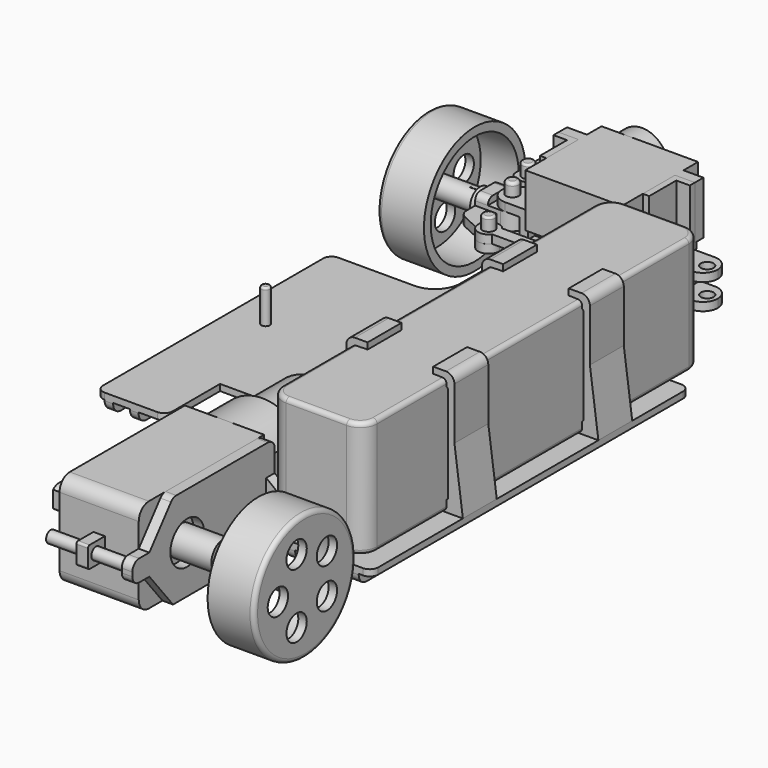
from build123d import *

# Parameters (mm, degrees)
SKETCH_R                = 2.5
PAD_DEPTH               = 1.7
SKETCH001_R             = 1
POCKET_DEPTH            = 1.701
SKETCH002_R             = 3.05
PAD001_DEPTH            = 0.6
SKETCH003_R             = 1
POCKET001_DEPTH         = 2.301
BODY_PLACEMENT_ANGLE    = 90
SKETCH004_R             = 15
PAD002_DEPTH            = 11
THICKNESS_T             = -2
FILLET_R                = 1
SKETCH005_R             = 2.45
PAD003_DEPTH            = 12.3
SKETCH006_R             = 1
POCKET002_DEPTH         = 7.3
SKETCH007_R             = 3
POCKET003_DEPTH         = 5
BODY001_PLACEMENT_ANGLE = 90
SKETCH008_R             = 1.5
PAD004_DEPTH            = 2
PAD005_DEPTH            = 3
SKETCH010_R             = 2.6
POCKET004_DEPTH         = 1.8
SKETCH011_R             = 1.3
POCKET005_DEPTH         = 2
PAD006_DEPTH            = 1
SKETCH026_W             = 5
SKETCH026_H             = 7
PAD015_DEPTH            = 1
SKETCH098_R             = 1.4
PAD068_DEPTH            = 5
FILLET037_R             = 0.5
SKETCH099_R             = 1.4
PAD069_DEPTH            = 5
FILLET038_R             = 0.5
FILLET039_R             = 1
PAD007_DEPTH            = 3.5
FILLET001_R             = 0.5
FILLET002_R             = 0.5
FILLET003_R             = 0.5
FILLET004_R             = 0.5
FILLET005_R             = 3.5
FILLET006_R             = 3.49
FILLET007_R             = 3.5
FILLET008_R             = 3.49
FILLET009_R             = 3.5
FILLET010_R             = 3.5
FILLET011_R             = 3.49
FILLET012_R             = 3.49
SKETCH014_R             = 1.5
POCKET006_DEPTH         = 8.001
SKETCH022_W             = 9
SKETCH022_H             = 4
POCKET008_DEPTH         = 2
SKETCH023_W             = 9
SKETCH023_H             = 4
POCKET009_DEPTH         = 2
SKETCH025_R             = 1
POCKET010_DEPTH         = 7.001
PAD073_DEPTH            = 1.5
PAD074_DEPTH            = 12.5
SKETCH106_R             = 1
PAD075_DEPTH            = 3
FILLET045_R             = 0.5
SKETCH015_W             = 22.8
SKETCH015_H             = 15.7
PAD008_DEPTH            = 6.25
SKETCH016_W             = 32.2
SKETCH016_H             = 2.5
PAD009_DEPTH            = 6.25
SKETCH017_W             = 22.8
SKETCH017_H             = 4.3
PAD010_DEPTH            = 12.5
SKETCH018_R             = 1
POCKET007_DEPTH         = 18.201
SKETCH019_R             = 6.15
PAD011_DEPTH            = 4.3
SKETCH020_R             = 2.45
PAD012_DEPTH            = 3.2
SKETCH021_R             = 2.75
PAD013_DEPTH            = 4.3
BODY004_PLACEMENT_ANGLE = 89.997998
SKETCH024_R             = 1.45
PAD014_DEPTH            = 2
SKETCH049_R             = 2.5
PAD028_DEPTH            = 0.6
SKETCH050_R             = 1.47
PAD029_DEPTH            = 11
FILLET048_R             = 0.7
BODY009_PLACEMENT_ANGLE = 90
PAD034_DEPTH            = 9.35
SKETCH058_W             = 5
SKETCH058_H             = 5
SKETCH058_R             = 1.4
PAD035_DEPTH            = 1.35
FILLET023_R             = 0.5
FILLET024_R             = 0.5
SKETCH059_R             = 2.7
PAD036_DEPTH            = 1
SKETCH060_R             = 0.95
PAD037_DEPTH            = 8
SKETCH061_R             = 2.7
PAD038_DEPTH            = 1
PAD039_DEPTH            = 8
SKETCH063_R             = 1.5
POCKET023_DEPTH         = 27.701
PAD040_DEPTH            = 11.2
PAD041_DEPTH            = 16.3
FILLET025_R             = 3
FILLET026_R             = 3
FILLET027_R             = 2
FILLET028_R             = 2
BODY013_PLACEMENT_ANGLE = 180
SKETCH066_R             = 3
PAD042_DEPTH            = 1
SKETCH067_R             = 1
PAD043_DEPTH            = 2.5
FILLET046_R             = 0.5
PAD076_DEPTH            = 2
BODY014_PLACEMENT_ANGLE = 90
SKETCH069_R             = 3
PAD044_DEPTH            = 1
SKETCH071_R             = 2
PAD045_DEPTH            = 6
SKETCH072_R             = 3.5
PAD046_DEPTH            = 10
POCKET024_DEPTH         = 8
PAD077_DEPTH            = 2
FILLET047_R             = 0.5
BODY015_PLACEMENT_ANGLE = 90
SKETCH074_W             = 100
SKETCH074_H             = 27.5
PAD047_DEPTH            = 11.15
FILLET029_R             = 4
FILLET030_R             = 1
PAD048_DEPTH            = 1.5
SKETCH076_R             = 1
PAD049_DEPTH            = 6
SKETCH077_R             = 5
PAD050_DEPTH            = 2.5
SKETCH078_R             = 1.48
SKETCH078_R_2           = 1.38
PAD051_DEPTH            = 18.7
PAD052_DEPTH            = 2.5
PAD055_DEPTH            = 10
PAD056_DEPTH            = 10
SKETCH086_R             = 1
PAD057_DEPTH            = 8
SKETCH090_W             = 94
SKETCH090_H             = 2.5
PAD061_DEPTH            = 1
SKETCH091_W             = 94
SKETCH091_H             = 2.5
PAD062_DEPTH            = 1
SKETCH092_W             = 94
SKETCH092_H             = 2.5
PAD063_DEPTH            = 1
SKETCH093_W             = 69
SKETCH093_H             = 2.5
PAD064_DEPTH            = 14
SKETCH094_W             = 2
SKETCH094_H             = 2.5
SKETCH094_W_2           = 4
POCKET027_DEPTH         = 102.001
SKETCH095_W             = 2
SKETCH095_H             = 2.5
PAD065_DEPTH            = 86
PAD066_DEPTH            = 10
PAD067_DEPTH            = 10
CHAMFER002_SIZE         = 3
CHAMFER003_SIZE         = 2
FILLET032_R             = 2
FILLET033_R             = 0.5
FILLET034_R             = 2
FILLET035_R             = 6
FILLET036_R             = 2
FILLET040_R             = 2.3
BODY017_PLACEMENT_ANGLE = 90
SKETCH080_R             = 15
PAD053_DEPTH            = 11
THICKNESS001_T          = -2
FILLET031_R             = 1
SKETCH081_R             = 2.45
PAD054_DEPTH            = 12.3
SKETCH082_R             = 1
POCKET025_DEPTH         = 7.3
SKETCH083_R             = 3
POCKET026_DEPTH         = 5
BODY018_PLACEMENT_ANGLE = 90
SKETCH100_R             = 1.45
PAD070_DEPTH            = 2
FILLET041_R             = 2
FILLET042_R             = 5
FILLET043_R             = 5
SKETCH101_W             = 4
SKETCH101_H             = 10
PAD071_DEPTH            = 2.5
POCKET028_DEPTH         = 5
FILLET044_R             = 1
PAD072_DEPTH            = 2.5


with BuildPart() as bearing_ref:
    # Sketch → Pad (new body)
    with BuildSketch(Plane.XY):
        Circle(SKETCH_R)
    extrude(amount=PAD_DEPTH)

    # Sketch001 (on Face3 of Pad) → Pocket (cut, through all)
    with BuildSketch(Plane.XY.offset(1.7)):
        Circle(SKETCH001_R)
    extrude(amount=-POCKET_DEPTH, mode=Mode.SUBTRACT)

    # Sketch002 (on Face3 of Pocket) → Pad001 (join)
    with BuildSketch(Plane.XY.offset(1.7)):
        Circle(SKETCH002_R)
    extrude(amount=PAD001_DEPTH)

    # Sketch003 (on Face3 of Pad001) → Pocket001 (cut, through all)
    with BuildSketch(Plane.XY.offset(2.3)):
        Circle(SKETCH003_R)
    extrude(amount=-POCKET001_DEPTH, mode=Mode.SUBTRACT)


with BuildPart() as bearing_ref_1:
    # Body placement: moved
    add(bearing_ref.part.moved(Location((1.7, 0, 0))).rotate(Axis((1.7, 0, 0), (0, -1, 0)), BODY_PLACEMENT_ANGLE))


with BuildPart() as wheel_ref0:
    # Sketch004 → Pad002 (new body)
    with BuildSketch(Plane.XZ):
        Circle(SKETCH004_R)
    extrude(amount=PAD002_DEPTH)

    # Thickness
    thickness_openings = [wheel_ref0.faces().sort_by_distance(p)[0] for p in [
        (0, -11, 0),
    ]]
    offset(amount=THICKNESS_T, openings=thickness_openings)

    # Fillet
    fillet_edges = [wheel_ref0.edges().sort_by_distance(p)[0] for p in [
        (-15, 0, 0),
    ]]
    fillet(fillet_edges, radius=FILLET_R)

    # Sketch005 (on Face4 of Fillet) → Pad003 (join)
    with BuildSketch(Plane(origin=(0, 0, 0), x_dir=(-1, 0, 0), z_dir=(0, 1, 0))):
        Circle(SKETCH005_R)
    extrude(amount=-PAD003_DEPTH)

    # Sketch006 (on Face9 of Pad003) → Pocket002 (cut)
    with BuildSketch(Plane.XZ.offset(12.3)):
        Circle(SKETCH006_R)
    extrude(amount=-POCKET002_DEPTH, mode=Mode.SUBTRACT)

    # Sketch007 (on Face4 of Pocket002) → Pocket003 (cut)
    with BuildSketch(Plane(origin=(0, 0, 0), x_dir=(-1, 0, 0), z_dir=(0, 1, 0))):
        with Locations((-2.472136, 7.608452)):
            Circle(SKETCH007_R)
        with Locations((6.472136, 4.702282)):
            Circle(SKETCH007_R)
        with Locations((6.472136, -4.702282)):
            Circle(SKETCH007_R)
        with Locations((-2.472136, -7.608452)):
            Circle(SKETCH007_R)
        with Locations((-8, 0)):
            Circle(SKETCH007_R)
    extrude(amount=-POCKET003_DEPTH, mode=Mode.SUBTRACT)


with BuildPart() as wheel_ref0_1:
    # Body001 placement: moved
    add(wheel_ref0.part.moved(Location((-13.9, 0, 0))).rotate(Axis((-13.9, 0, 0), (0, 0, 1)), BODY001_PLACEMENT_ANGLE))


with BuildPart() as steering_knuckle:
    # Sketch008 → Pad004 (new body, symmetric)
    with BuildSketch(Plane.XY):
        with BuildLine():
            ThreePointArc((5.999997, -3.5), (9.5, 0), (5.999997, 3.5))
            Line((5.999997, 3.5), (3, 3.499997))
            Line((3, 3.499997), (3, -3.5))
            Line((3, -3.5), (5.999997, -3.5))
        make_face()
        with Locations((6, 0)):
            Circle(SKETCH008_R, mode=Mode.SUBTRACT)
    extrude(amount=PAD004_DEPTH, both=True)

    # Sketch009 (on Face3 of Pad004) → Pad005 (join)
    with BuildSketch(Plane(origin=(3, 0, 0), x_dir=(0, -1, 0), z_dir=(-1, 0, 0))):
        with BuildLine():
            Line((-2, 3.5), (2, 3.5))
            ThreePointArc((3.5, 2), (3.06066, 3.06066), (2, 3.5))
            Line((3.5, 2), (3.5, -2))
            ThreePointArc((2, -3.5), (3.06066, -3.06066), (3.5, -2))
            Line((2, -3.5), (-2, -3.5))
            ThreePointArc((-3.5, -2), (-3.06066, -3.06066), (-2, -3.5))
            Line((-3.5, -2), (-3.5, 2))
            ThreePointArc((-2, 3.5), (-3.06066, 3.06066), (-3.5, 2))
        make_face()
    extrude(amount=PAD005_DEPTH)

    # Sketch010 (on Face11 of Pad005) → Pocket004 (cut)
    with BuildSketch(Plane(origin=(0, 0, 0), x_dir=(0, -1, 0), z_dir=(-1, 0, 0))):
        Circle(SKETCH010_R)
    extrude(amount=-POCKET004_DEPTH, mode=Mode.SUBTRACT)

    # Sketch011 (on Face18 of Pocket004) → Pocket005 (cut)
    with BuildSketch(Plane(origin=(1.8, 0, 0), x_dir=(0, -1, 0), z_dir=(-1, 0, 0))):
        Circle(SKETCH011_R)
    extrude(amount=-POCKET005_DEPTH, mode=Mode.SUBTRACT)

    # Sketch012 → Pad006 (join, symmetric)
    with BuildSketch(Plane.XY):
        with BuildLine():
            ThreePointArc((7.5, -12.00002), (10.00001, -14.5), (12.5, -12))
            Line((12.5, -12), (12.5, -10.5))
            ThreePointArc((12.5, -10.5), (12.103591, -9.149109), (11.040075, -8.226623))
            Line((11.040075, -8.226623), (5.875955, -5.864026))
            ThreePointArc((5, -4.5), (5.237846, -5.310535), (5.875955, -5.864026))
            Line((5, -4.5), (5, -3.5))
            Line((5, -3.5), (0, -3.5))
            Line((0, -3.5), (0, -6))
            ThreePointArc((0, -6), (0.396409, -7.350891), (1.459925, -8.273377))
            Line((1.459925, -8.273377), (6.624045, -10.635974))
            ThreePointArc((7.5, -12), (7.262154, -11.189465), (6.624045, -10.635974))
            Line((7.5, -12), (7.5, -12.00002))
        make_face()
    extrude(amount=PAD006_DEPTH, both=True)

    # Sketch026 → Pad015 (join, symmetric)
    with BuildSketch(Plane.XY):
        with Locations((2.5, 7)):
            Rectangle(SKETCH026_W, SKETCH026_H)
    extrude(amount=PAD015_DEPTH, both=True)

    # Sketch098 (on Face7 of Pad015) → Pad068 (join)
    with BuildSketch(Plane.XY.offset(1)):
        with Locations((10, -12)):
            Circle(SKETCH098_R)
    extrude(amount=PAD068_DEPTH)

    # Fillet037
    fillet037_edges = [steering_knuckle.edges().sort_by_distance(p)[0] for p in [
        (8.6, -12, 6),
    ]]
    fillet(fillet037_edges, radius=FILLET037_R)

    # Sketch099 (on Face39 of Fillet037) → Pad069 (join)
    with BuildSketch(Plane.XY.offset(1)):
        with Locations((2.5, 9)):
            Circle(SKETCH099_R)
    extrude(amount=PAD069_DEPTH)

    # Fillet038
    fillet038_edges = [steering_knuckle.edges().sort_by_distance(p)[0] for p in [
        (1.1, 9, 6),
    ]]
    fillet(fillet038_edges, radius=FILLET038_R)

    # Fillet039
    fillet039_edges = [steering_knuckle.edges().sort_by_distance(p)[0] for p in [
        (0, 10.5, 0),
        (5, 10.5, 0),
    ]]
    fillet(fillet039_edges, radius=FILLET039_R)


with BuildPart() as axle_servo_motor_holder:
    # Sketch013 → Pad007 (new body, symmetric)
    with BuildSketch(Plane.XZ):
        Polygon((3.5, 4), (3.5, 2.05), (10.5, 2.05), (10.5, -2.05), (3.5, -2.05), (3.5, -4), (12.5, -4), (12.5, -3), (45.5, -3), (45.5, -4), (54.5, -4), (54.5, -2.05), (47.5, -2.05), (47.5, 2.05), (54.5, 2.05), (54.5, 4), (45.5, 4), (45.5, 3), (12.5, 3), (12.5, 4), align=None)
    extrude(amount=PAD007_DEPTH, both=True)

    # Fillet001
    fillet001_edges = [axle_servo_motor_holder.edges().sort_by_distance(p)[0] for p in [
        (45.5, 0, 4),
    ]]
    fillet(fillet001_edges, radius=FILLET001_R)

    # Fillet002
    fillet002_edges = [axle_servo_motor_holder.edges().sort_by_distance(p)[0] for p in [
        (45.5, 0, -4),
    ]]
    fillet(fillet002_edges, radius=FILLET002_R)

    # Fillet003
    fillet003_edges = [axle_servo_motor_holder.edges().sort_by_distance(p)[0] for p in [
        (12.5, 0, 4),
    ]]
    fillet(fillet003_edges, radius=FILLET003_R)

    # Fillet004
    fillet004_edges = [axle_servo_motor_holder.edges().sort_by_distance(p)[0] for p in [
        (12.5, 0, -4),
    ]]
    fillet(fillet004_edges, radius=FILLET004_R)

    # Fillet005
    fillet005_edges = [axle_servo_motor_holder.edges().sort_by_distance(p)[0] for p in [
        (3.5, -3.5, 3.025),
    ]]
    fillet(fillet005_edges, radius=FILLET005_R)

    # Fillet006
    fillet006_edges = [axle_servo_motor_holder.edges().sort_by_distance(p)[0] for p in [
        (3.5, 3.5, 3.025),
    ]]
    fillet(fillet006_edges, radius=FILLET006_R)

    # Fillet007
    fillet007_edges = [axle_servo_motor_holder.edges().sort_by_distance(p)[0] for p in [
        (3.5, -3.5, -3.025),
    ]]
    fillet(fillet007_edges, radius=FILLET007_R)

    # Fillet008
    fillet008_edges = [axle_servo_motor_holder.edges().sort_by_distance(p)[0] for p in [
        (3.5, 3.5, -3.025),
    ]]
    fillet(fillet008_edges, radius=FILLET008_R)

    # Fillet009
    fillet009_edges = [axle_servo_motor_holder.edges().sort_by_distance(p)[0] for p in [
        (54.5, 3.5, 3.025),
    ]]
    fillet(fillet009_edges, radius=FILLET009_R)

    # Fillet010
    fillet010_edges = [axle_servo_motor_holder.edges().sort_by_distance(p)[0] for p in [
        (54.5, 3.5, -3.025),
    ]]
    fillet(fillet010_edges, radius=FILLET010_R)

    # Fillet011
    fillet011_edges = [axle_servo_motor_holder.edges().sort_by_distance(p)[0] for p in [
        (54.5, -3.5, 3.025),
    ]]
    fillet(fillet011_edges, radius=FILLET011_R)

    # Fillet012
    fillet012_edges = [axle_servo_motor_holder.edges().sort_by_distance(p)[0] for p in [
        (54.5, -3.5, -3.025),
    ]]
    fillet(fillet012_edges, radius=FILLET012_R)

    # Sketch014 (on Face22 of Fillet012) → Pocket006 (cut, through all)
    with BuildSketch(Plane(origin=(0, 0, 4), x_dir=(-1, 0, 0), z_dir=(0, 0, 1))):
        with Locations((-6, 0)):
            Circle(SKETCH014_R)
        with Locations((-52, 0)):
            Circle(SKETCH014_R)
    extrude(amount=-POCKET006_DEPTH, mode=Mode.SUBTRACT)

    # Sketch022 (on Face1 of Pocket006) → Pocket008 (cut)
    with BuildSketch(Plane.XZ.offset(3.5)):
        with Locations((17, 0)):
            Rectangle(SKETCH022_W, SKETCH022_H)
        with Locations((29, 0)):
            Rectangle(SKETCH022_W, SKETCH022_H)
        with Locations((41, 0)):
            Rectangle(SKETCH022_W, SKETCH022_H)
    extrude(amount=-POCKET008_DEPTH, mode=Mode.SUBTRACT)

    # Sketch023 (on Face40 of Pocket008) → Pocket009 (cut)
    with BuildSketch(Plane(origin=(0, 3.5, 0), x_dir=(1, 0, 0), z_dir=(0, 1, 0))):
        with Locations((17, 0)):
            Rectangle(SKETCH023_W, SKETCH023_H)
        with Locations((29, 0)):
            Rectangle(SKETCH023_W, SKETCH023_H)
        with Locations((41, 0)):
            Rectangle(SKETCH023_W, SKETCH023_H)
    extrude(amount=-POCKET009_DEPTH, mode=Mode.SUBTRACT)

    # Sketch025 (on Face16 of Pocket009) → Pocket010 (cut, through all)
    with BuildSketch(Plane(origin=(0, 0, 3), x_dir=(-1, 0, 0), z_dir=(0, 0, 1))):
        with Locations((-23, 1.75)):
            Circle(SKETCH025_R)
        with Locations((-23, -1.75)):
            Circle(SKETCH025_R)
        with Locations((-35, 1.75)):
            Circle(SKETCH025_R)
        with Locations((-35, -1.75)):
            Circle(SKETCH025_R)
    extrude(amount=-POCKET010_DEPTH, mode=Mode.SUBTRACT)

    # Sketch104 (on Face16 of Pocket010) → Pad073 (join)
    with BuildSketch(Plane(origin=(0, 0, 3), x_dir=(-1, 0, 0), z_dir=(0, 0, 1))):
        Polygon((-41.9, 4.5), (-16.1, 4.5), (-16.1, -3.5), (-12.9, -3.5), (-12.9, -5.5), (-45.1, -5.5), (-45.1, -3.5), (-41.9, -3.5), align=None)
    extrude(amount=PAD073_DEPTH)

    # Sketch105 (on Face81 of Pad073) → Pad074 (join)
    with BuildSketch(Plane(origin=(0, 0, 4.5), x_dir=(-1, 0, 0), z_dir=(0, 0, 1))):
        Polygon((-40.4, -5.5), (-45.1, -5.5), (-45.1, -3.5), (-41.9, -3.5), (-41.9, 4.5), (-40.4, 4.5), align=None)
        Polygon((-17.6, 4.5), (-16.1, 4.5), (-16.1, -3.5), (-12.9, -3.5), (-12.9, -5.5), (-17.6, -5.5), align=None)
    extrude(amount=PAD074_DEPTH)

    # Sketch106 (on Face100 of Pad074) → Pad075 (join)
    with BuildSketch(Plane(origin=(0, 5.5, 0), x_dir=(1, 0, 0), z_dir=(0, 1, 0))):
        with Locations((42.75, -10.75)):
            Circle(SKETCH106_R)
        with Locations((15.25, -10.75)):
            Circle(SKETCH106_R)
    extrude(amount=PAD075_DEPTH)

    # Fillet045
    fillet045_edges = [axle_servo_motor_holder.edges().sort_by_distance(p)[0] for p in [
        (41.75, 8.5, 10.75),
        (14.25, 8.5, 10.75),
    ]]
    fillet(fillet045_edges, radius=FILLET045_R)


with BuildPart() as servo_motor_ref:
    # Sketch015 → Pad008 (new body, symmetric)
    with BuildSketch(Plane.XZ):
        Rectangle(SKETCH015_W, SKETCH015_H)
    extrude(amount=PAD008_DEPTH, both=True)

    # Sketch016 → Pad009 (join, symmetric)
    with BuildSketch(Plane.XZ):
        with Locations((0, 9.1)):
            Rectangle(SKETCH016_W, SKETCH016_H)
    extrude(amount=PAD009_DEPTH, both=True)

    # Sketch017 (on Face9 of Pad009) → Pad010 (join)
    with BuildSketch(Plane.XZ.offset(6.25)):
        with Locations((0, 12.5)):
            Rectangle(SKETCH017_W, SKETCH017_H)
    extrude(amount=-PAD010_DEPTH)

    # Sketch018 (on Face1 of Pad010) → Pocket007 (cut, through all)
    with BuildSketch(Plane(origin=(0, 0, 10.35), x_dir=(-1, 0, 0), z_dir=(0, 0, 1))):
        with Locations((-13.75, 0)):
            Circle(SKETCH018_R)
        with Locations((13.75, 0)):
            Circle(SKETCH018_R)
    extrude(amount=-POCKET007_DEPTH, mode=Mode.SUBTRACT)

    # Sketch019 (on Face13 of Pocket007) → Pad011 (join)
    with BuildSketch(Plane(origin=(0, 0, 14.65), x_dir=(-1, 0, 0), z_dir=(0, 0, 1))):
        with Locations((5.25, 0)):
            Circle(SKETCH019_R)
    extrude(amount=PAD011_DEPTH)

    # Sketch020 (on Face22 of Pad011) → Pad012 (join)
    with BuildSketch(Plane(origin=(0, 0, 18.95), x_dir=(-1, 0, 0), z_dir=(0, 0, 1))):
        with Locations((5.25, 0)):
            Circle(SKETCH020_R)
    extrude(amount=PAD012_DEPTH)

    # Sketch021 (on Face13 of Pad012) → Pad013 (join)
    with BuildSketch(Plane(origin=(0, 0, 14.65), x_dir=(-1, 0, 0), z_dir=(0, 0, 1))):
        with Locations((-0.35, 0)):
            Circle(SKETCH021_R)
    extrude(amount=PAD013_DEPTH)


with BuildPart() as servo_motor_ref_1:
    # Body004 placement: moved
    add(servo_motor_ref.part.moved(Location((29, -2.849782, 10.749726))).rotate(Axis((29, -2.849782, 10.749726), (-1, 0, 0)), BODY004_PLACEMENT_ANGLE))


with BuildPart() as track_rod:
    # Sketch024 → Pad014 (new body)
    with BuildSketch(Plane.XY):
        with BuildLine():
            ThreePointArc((2, 1.5), (-2.5, 0), (2, -1.5))
            Line((2, -1.5), (36, -1.5))
            ThreePointArc((36, -1.5), (40.5, 0), (36, 1.5))
            Line((36, 1.5), (2, 1.5))
        make_face()
        Circle(SKETCH024_R, mode=Mode.SUBTRACT)
        with Locations((38, 0)):
            Circle(SKETCH024_R, mode=Mode.SUBTRACT)
    extrude(amount=PAD014_DEPTH)


with BuildPart() as track_rod_1:
    # Body005 placement: moved
    add(track_rod.part.moved(Location((10, -12, 1))))


with BuildPart() as pin1:
    # Sketch049 → Pad028 (new body)
    with BuildSketch(Plane.XZ):
        Circle(SKETCH049_R)
    extrude(amount=PAD028_DEPTH)

    # Sketch050 (on Face3 of Pad028) → Pad029 (join)
    with BuildSketch(Plane.XZ.offset(0.6)):
        Circle(SKETCH050_R)
    extrude(amount=PAD029_DEPTH)

    # Fillet048
    fillet048_edges = [pin1.edges().sort_by_distance(p)[0] for p in [
        (-1.47, -11.6, 0),
    ]]
    fillet(fillet048_edges, radius=FILLET048_R)


with BuildPart() as pin1_1:
    # Body009 placement: moved
    add(pin1.part.moved(Location((6, 0, -4.6))).rotate(Axis((6, 0, -4.6), (-1, 0, 0)), BODY009_PLACEMENT_ANGLE))


with BuildPart() as motor_ref:
    # Sketch057 → Pad034 (new body, symmetric)
    with BuildSketch(Plane.YZ):
        with BuildLine():
            Line((0, 11.15), (34, 11.15))
            ThreePointArc((37, 8.15), (36.12132, 10.27132), (34, 11.15))
            Line((37, 8.15), (37, -8.15))
            ThreePointArc((34, -11.15), (36.12132, -10.27132), (37, -8.15))
            Line((34, -11.15), (0, -11.15))
            Line((0, -11.15), (0, 11.15))
        make_face()
    extrude(amount=PAD034_DEPTH, both=True)

    # Sketch058 → Pad035 (join, symmetric)
    with BuildSketch(Plane.YZ):
        with Locations((39.5, 0)):
            Rectangle(SKETCH058_W, SKETCH058_H)
        with Locations((39.6, 0)):
            Circle(SKETCH058_R, mode=Mode.SUBTRACT)
    extrude(amount=PAD035_DEPTH, both=True)

    # Fillet023
    fillet023_edges = [motor_ref.edges().sort_by_distance(p)[0] for p in [
        (0, 42, 2.5),
    ]]
    fillet(fillet023_edges, radius=FILLET023_R)

    # Fillet024
    fillet024_edges = [motor_ref.edges().sort_by_distance(p)[0] for p in [
        (0, 42, -2.5),
    ]]
    fillet(fillet024_edges, radius=FILLET024_R)

    # Sketch059 (on Face12 of Fillet024) → Pad036 (join)
    with BuildSketch(Plane.YZ.offset(9.35)):
        with Locations((25.8, 0)):
            Circle(SKETCH059_R)
    extrude(amount=PAD036_DEPTH)

    # Sketch060 (on Face18 of Pad036) → Pad037 (join)
    with BuildSketch(Plane.YZ.offset(10.35)):
        with BuildLine():
            ThreePointArc((23.95, -1.966596), (25.8, -2.7), (27.65, -1.966596))
            Line((27.65, 1.966596), (27.65, -1.966596))
            ThreePointArc((27.65, 1.966596), (25.8, 2.7), (23.95, 1.966596))
            Line((23.95, 1.966596), (23.95, -1.966596))
        make_face()
        with Locations((25.8, 0)):
            Circle(SKETCH060_R, mode=Mode.SUBTRACT)
    extrude(amount=PAD037_DEPTH)

    # Sketch061 (on Face11 of Pad037) → Pad038 (join)
    with BuildSketch(Plane(origin=(-9.35, 0, 0), x_dir=(0, 1, 0), z_dir=(-1, 0, 0))):
        with Locations((25.8, 0)):
            Circle(SKETCH061_R)
    extrude(amount=PAD038_DEPTH)

    # Sketch062 (on Face19 of Pad038) → Pad039 (join)
    with BuildSketch(Plane(origin=(-10.35, 0, 0), x_dir=(0, 1, 0), z_dir=(-1, 0, 0))):
        with BuildLine():
            ThreePointArc((23.95, -1.966596), (25.8, -2.7), (27.65, -1.966596))
            Line((27.65, 1.966596), (27.65, -1.966596))
            ThreePointArc((27.65, 1.966596), (25.8, 2.7), (23.95, 1.966596))
            Line((23.95, 1.966596), (23.95, -1.966596))
        make_face()
    extrude(amount=PAD039_DEPTH)

    # Sketch063 (on Face12 of Pad039) → Pocket023 (cut, through all)
    with BuildSketch(Plane.YZ.offset(9.35)):
        with Locations((5.2, 8.75)):
            Circle(SKETCH063_R)
        with Locations((5.2, -8.75)):
            Circle(SKETCH063_R)
    extrude(amount=-POCKET023_DEPTH, mode=Mode.SUBTRACT)

    # Sketch064 (on Face16 of Pocket023) → Pad040 (join)
    with BuildSketch(Plane(origin=(0, 0, 0), x_dir=(0, 0, -1), z_dir=(0, -1, 0))):
        with BuildLine():
            ThreePointArc((6.074537, -9.35), (11.15, 0), (6.074537, 9.35))
            Line((-6.074537, 9.35), (6.074537, 9.35))
            ThreePointArc((-6.074537, 9.35), (-11.15, 0), (-6.074537, -9.35))
            Line((-6.074537, -9.35), (6.074537, -9.35))
        make_face()
    extrude(amount=PAD040_DEPTH)

    # Sketch065 (on Face28 of Pad040) → Pad041 (join)
    with BuildSketch(Plane(origin=(0, -11.2, 0), x_dir=(0, 0, -1), z_dir=(0, -1, 0))):
        with BuildLine():
            ThreePointArc((5.612486, -7.85), (9.65, 0), (5.612486, 7.85))
            Line((-5.612486, 7.85), (5.612486, 7.85))
            ThreePointArc((-5.612486, 7.85), (-9.65, 0), (-5.612486, -7.85))
            Line((-5.612486, -7.85), (5.612486, -7.85))
        make_face()
    extrude(amount=PAD041_DEPTH)

    # Fillet025
    fillet025_edges = [motor_ref.edges().sort_by_distance(p)[0] for p in [
        (7.85, -27.5, 0),
    ]]
    fillet(fillet025_edges, radius=FILLET025_R)

    # Fillet026
    fillet026_edges = [motor_ref.edges().sort_by_distance(p)[0] for p in [
        (-7.85, -27.5, 0),
    ]]
    fillet(fillet026_edges, radius=FILLET026_R)

    # Fillet027
    fillet027_edges = [motor_ref.edges().sort_by_distance(p)[0] for p in [
        (0, -27.5, 9.65),
    ]]
    fillet(fillet027_edges, radius=FILLET027_R)

    # Fillet028
    fillet028_edges = [motor_ref.edges().sort_by_distance(p)[0] for p in [
        (0, -27.5, -9.65),
    ]]
    fillet(fillet028_edges, radius=FILLET028_R)


with BuildPart() as motor_ref_1:
    # Body013 placement: moved
    add(motor_ref.part.moved(Location((29.6, -114.5, 0))).rotate(Axis((29.6, -114.5, 0), (1, 0, 0)), BODY013_PLACEMENT_ANGLE))


with BuildPart() as front_wheel_connector:
    # Sketch066 → Pad042 (new body)
    with BuildSketch(Plane.XZ):
        Circle(SKETCH066_R)
    extrude(amount=PAD042_DEPTH)

    # Sketch067 (on Face2 of Pad042) → Pad043 (join)
    with BuildSketch(Plane(origin=(0, 0, 0), x_dir=(1, 0, 0), z_dir=(0, 1, 0))):
        Circle(SKETCH067_R)
    extrude(amount=PAD043_DEPTH)

    # Sketch068 → Revolution (revolve)
    with BuildSketch(Plane.XY):
        Polygon((0, -1), (0, -6), (-1, -6), (-1.15, -1), align=None)
    revolve(axis=Axis((0, 0, 0), (0, 1, 0)))

    # Fillet046
    fillet046_edges = [front_wheel_connector.edges().sort_by_distance(p)[0] for p in [
        (1, -6, 0),
        (-1, 2.5, 0),
    ]]
    fillet(fillet046_edges, radius=FILLET046_R)

    # Sketch107 (on Face6 of Fillet046) → Pad076 (join)
    with BuildSketch(Plane.XZ.offset(1)):
        with BuildLine():
            ThreePointArc((-0.5, -2.44949), (0, -2.5), (0.5, -2.44949))
            Line((0.5, -2.44949), (0.5, 2.44949))
            ThreePointArc((0.5, 2.44949), (0, 2.5), (-0.5, 2.44949))
            Line((-0.5, 2.44949), (-0.5, -2.44949))
        make_face()
    extrude(amount=PAD076_DEPTH)


with BuildPart() as front_wheel_connector_1:
    # Body014 placement: moved
    add(front_wheel_connector.part.moved(Location((-0.6, 0, 0))).rotate(Axis((-0.6, 0, 0), (0, 0, -1)), BODY014_PLACEMENT_ANGLE))


with BuildPart() as back_wheel_connector:
    # Sketch069 → Pad044 (new body)
    with BuildSketch(Plane.XZ):
        Circle(SKETCH069_R)
    extrude(amount=PAD044_DEPTH)

    # Sketch070 → Revolution001 (revolve)
    with BuildSketch(Plane.XY):
        Polygon((0, -1), (0, -6), (-1, -6), (-1.15, -1), align=None)
    revolve(axis=Axis((0, 0, 0), (0, 1, 0)))

    # Sketch071 (on Face2 of Revolution001) → Pad045 (join)
    with BuildSketch(Plane(origin=(0, 0, 0), x_dir=(1, 0, 0), z_dir=(0, 1, 0))):
        Circle(SKETCH071_R)
    extrude(amount=PAD045_DEPTH)

    # Sketch072 (on Face6 of Pad045) → Pad046 (join)
    with BuildSketch(Plane(origin=(0, 6, 0), x_dir=(1, 0, 0), z_dir=(0, 1, 0))):
        Circle(SKETCH072_R)
    extrude(amount=PAD046_DEPTH)

    # Sketch073 (on Face3 of Pad046) → Pocket024 (cut)
    with BuildSketch(Plane(origin=(0, 16, 0), x_dir=(1, 0, 0), z_dir=(0, 1, 0))):
        with BuildLine():
            ThreePointArc((-1.9, -1.98809), (0, -2.75), (1.9, -1.98809))
            Line((1.9, 1.98809), (1.9, -1.98809))
            ThreePointArc((1.9, 1.98809), (0, 2.75), (-1.9, 1.98809))
            Line((-1.9, 1.98809), (-1.9, -1.98809))
        make_face()
    extrude(amount=-POCKET024_DEPTH, mode=Mode.SUBTRACT)

    # Sketch108 (on Face12 of Pocket024) → Pad077 (join)
    with BuildSketch(Plane.XZ.offset(1)):
        with BuildLine():
            ThreePointArc((-0.5, -2.44949), (0, -2.5), (0.5, -2.44949))
            Line((0.5, -2.44949), (0.5, 2.44949))
            ThreePointArc((0.5, 2.44949), (0, 2.5), (-0.5, 2.44949))
            Line((-0.5, 2.44949), (-0.5, -2.44949))
        make_face()
    extrude(amount=PAD077_DEPTH)

    # Fillet047
    fillet047_edges = [back_wheel_connector.edges().sort_by_distance(p)[0] for p in [
        (1, -6, 0),
    ]]
    fillet(fillet047_edges, radius=FILLET047_R)


with BuildPart() as back_wheel_connector_1:
    # Body015 placement: moved
    add(back_wheel_connector.part.moved(Location((55.95, -140.3, 0))).rotate(Axis((55.95, -140.3, 0), (0, 0, 1)), BODY015_PLACEMENT_ANGLE))


with BuildPart() as battery_ref:
    # Sketch074 → Pad047 (new body, symmetric)
    with BuildSketch(Plane.YZ):
        Rectangle(SKETCH074_W, SKETCH074_H)
    extrude(amount=PAD047_DEPTH, both=True)

    # Fillet029
    fillet029_edges = [battery_ref.edges().sort_by_distance(p)[0] for p in [
        (-11.15, -50, 0),
        (11.15, -50, 0),
        (11.15, 50, 0),
        (-11.15, 50, 0),
    ]]
    fillet(fillet029_edges, radius=FILLET029_R)

    # Fillet030
    fillet030_edges = [battery_ref.edges().sort_by_distance(p)[0] for p in [
        (0, -50, -13.75),
        (0, -50, 13.75),
        (0, 50, -13.75),
        (0, 50, 13.75),
    ]]
    fillet(fillet030_edges, radius=FILLET030_R)


with BuildPart() as battery_ref_1:
    # Body016 placement: moved
    add(battery_ref.part.moved(Location((56.5, -71, 11))))


with BuildPart() as frame:
    # Sketch075 → Pad048 (new body)
    with BuildSketch(Plane.XY):
        Polygon((-40, 16.5), (-40, -16.5), (-7, -16.5), (-7, -42.5), (62, -42.5), (62, -26.05), (46, -26.05), (46, 12.95), (78, 12.95), (78, 9.95), (87, 9.95), (87, 42.5), (-7, 42.5), (-7, 16.5), align=None)
    extrude(amount=PAD048_DEPTH)

    # Sketch076 (on Face16 of Pad048) → Pad049 (join)
    with BuildSketch(Plane.XY.offset(1.5)):
        with Locations((-38.25, 6)):
            Circle(SKETCH076_R)
        with Locations((-34.75, 6)):
            Circle(SKETCH076_R)
        with Locations((-38.25, -6)):
            Circle(SKETCH076_R)
        with Locations((-34.75, -6)):
            Circle(SKETCH076_R)
    extrude(amount=PAD049_DEPTH)

    # Sketch077 (on Face6 of Pad049) → Pad050 (join)
    with BuildSketch(Plane.XZ.offset(-9.95)):
        Polygon((78, 15.65), (108, 15.65), (115, 7), (120, 7), (120, 2), (115, 2), (108, -6.65), (78, -6.65), align=None)
        with Locations((103.8, 4.5)):
            Circle(SKETCH077_R, mode=Mode.SUBTRACT)
    extrude(amount=-PAD050_DEPTH)

    # Sketch078 (on Face36 of Pad050) → Pad051 (join)
    with BuildSketch(Plane.XZ.offset(-9.95)):
        with Locations((83.2, 13.25)):
            Circle(SKETCH078_R)
        with Locations((83.2, -4.25)):
            Circle(SKETCH078_R)
        with Locations((117.6, 4.5)):
            Circle(SKETCH078_R_2)
    extrude(amount=PAD051_DEPTH)

    # Sketch079 (on Face21 of Pad051) → Pad052 (join)
    with BuildSketch(Plane(origin=(78, 0, 0), x_dir=(0, -1, 0), z_dir=(-1, 0, 0))):
        Polygon((-12.45, 8.5), (-12.45, 1.5), (-21.45, 1.5), align=None)
        Polygon((-12.45, 0), (-12.45, -6), (-21.45, 0), align=None)
    extrude(amount=-PAD052_DEPTH)

    # Sketch084 → Pad055 (join)
    with BuildSketch(Plane.YZ.offset(10)):
        Polygon((15, 1.5), (16.5, 1.5), (16.5, 29.3), (20, 29.3), (20, 30.8), (15, 30.8), align=None)
        Polygon((35.5, 30.8), (40.5, 30.8), (40.5, 1.5), (39, 1.5), (39, 29.3), (35.5, 29.3), align=None)
    extrude(amount=PAD055_DEPTH)

    # Sketch085 → Pad056 (join)
    with BuildSketch(Plane.YZ.offset(50)):
        Polygon((15, 1.5), (16.5, 1.5), (16.5, 29.3), (20, 29.3), (20, 30.8), (15, 30.8), align=None)
        Polygon((35.5, 30.8), (40.5, 30.8), (40.5, 1.5), (39, 1.5), (39, 29.3), (35.5, 29.3), align=None)
    extrude(amount=PAD056_DEPTH)

    # Sketch086 (on Face5 of Pad056) → Pad057 (join)
    with BuildSketch(Plane.XY.offset(1.5)):
        with Locations((22, -7.5)):
            Circle(SKETCH086_R)
        with Locations((22, -34.5)):
            Circle(SKETCH086_R)
    extrude(amount=PAD057_DEPTH)

    # Sketch090 → Pad061 (join, symmetric)
    with BuildSketch(Plane(origin=(0, 38.5, 0), x_dir=(-1, 0, 0), z_dir=(0, 1, 0))):
        with Locations((-40, -1.25)):
            Rectangle(SKETCH090_W, SKETCH090_H)
    extrude(amount=PAD061_DEPTH, both=True)

    # Sketch091 (on Face1 of Pad061) → Pad062 (join, symmetric)
    with BuildSketch(Plane(origin=(0, 31.5, 0), x_dir=(-1, 0, 0), z_dir=(0, 1, 0))):
        with Locations((-40, -1.25)):
            Rectangle(SKETCH091_W, SKETCH091_H)
    extrude(amount=PAD062_DEPTH, both=True)

    # Sketch092 (on Face1 of Pad062) → Pad063 (join, symmetric)
    with BuildSketch(Plane(origin=(0, 23.5, 0), x_dir=(-1, 0, 0), z_dir=(0, 1, 0))):
        with Locations((-40, -1.25)):
            Rectangle(SKETCH092_W, SKETCH092_H)
    extrude(amount=PAD063_DEPTH, both=True)

    # Sketch093 (on Face26 of Pad063) → Pad064 (join)
    with BuildSketch(Plane.XZ.offset(42.5)):
        with Locations((27.5, -1.25)):
            Rectangle(SKETCH093_W, SKETCH093_H)
    extrude(amount=-PAD064_DEPTH)

    # Sketch094 (on Face76 of Pad064) → Pocket027 (cut, through all)
    with BuildSketch(Plane.YZ.offset(62)):
        with Locations((-41.5, -1.25)):
            Rectangle(SKETCH094_W, SKETCH094_H)
        with Locations((-36.5, -1.25)):
            Rectangle(SKETCH094_W_2, SKETCH094_H)
        with Locations((-30.5, -1.25)):
            Rectangle(SKETCH094_W_2, SKETCH094_H)
    extrude(amount=-POCKET027_DEPTH, mode=Mode.SUBTRACT)

    # Sketch095 (on Face20 of Pocket027) → Pad065 (join)
    with BuildSketch(Plane(origin=(-40, 0, 0), x_dir=(0, -1, 0), z_dir=(-1, 0, 0))):
        with Locations((-15.5, -1.25)):
            Rectangle(SKETCH095_W, SKETCH095_H)
        with Locations((-9.3, -1.25)):
            Rectangle(SKETCH095_W, SKETCH095_H)
        with Locations((-3.1, -1.25)):
            Rectangle(SKETCH095_W, SKETCH095_H)
        with Locations((3.1, -1.25)):
            Rectangle(SKETCH095_W, SKETCH095_H)
        with Locations((9.3, -1.25)):
            Rectangle(SKETCH095_W, SKETCH095_H)
        with Locations((15.5, -1.25)):
            Rectangle(SKETCH095_W, SKETCH095_H)
    extrude(amount=-PAD065_DEPTH)

    # Sketch096 (on Face36 of Pad065) → Pad066 (join)
    with BuildSketch(Plane(origin=(10, 0, 0), x_dir=(0, -1, 0), z_dir=(-1, 0, 0))):
        Polygon((-15, 1.5), (-13, 1.5), (-15, 16.5), align=None)
        Polygon((-40.5, 1.5), (-40.5, 16.5), (-42.5, 1.5), align=None)
    extrude(amount=-PAD066_DEPTH)

    # Sketch097 (on Face54 of Pad066) → Pad067 (join)
    with BuildSketch(Plane.YZ.offset(60)):
        Polygon((40.5, 1.5), (42.5, 1.5), (40.5, 16.5), align=None)
        Polygon((15, 1.5), (13, 1.5), (15, 16.5), align=None)
    extrude(amount=-PAD067_DEPTH)

    # Chamfer002
    chamfer002_edges = [frame.edges().sort_by_distance(p)[0] for p in [
        (15, 39, 1.5),
        (15, 16.5, 1.5),
        (55, 16.5, 1.5),
        (55, 39, 1.5),
    ]]
    chamfer(chamfer002_edges, length=CHAMFER002_SIZE)

    # Chamfer003
    chamfer003_edges = [frame.edges().sort_by_distance(p)[0] for p in [
        (15, 16.5, 29.3),
        (55, 16.5, 29.3),
        (55, 39, 29.3),
        (15, 39, 29.3),
    ]]
    chamfer(chamfer003_edges, length=CHAMFER003_SIZE)

    # Fillet032
    fillet032_edges = [frame.edges().sort_by_distance(p)[0] for p in [
        (55, 40.5, 30.8),
        (55, 15, 30.8),
        (15, 40.5, 30.8),
        (15, 15, 30.8),
    ]]
    fillet(fillet032_edges, radius=FILLET032_R)

    # Fillet033
    fillet033_edges = [frame.edges().sort_by_distance(p)[0] for p in [
        (-39.25, -6, 7.5),
        (-35.75, -6, 7.5),
        (-39.25, 6, 7.5),
        (-35.75, 6, 7.5),
        (21, -34.5, 9.5),
        (21, -7.5, 9.5),
    ]]
    fillet(fillet033_edges, radius=FILLET033_R)

    # Fillet034
    fillet034_edges = [frame.edges().sort_by_distance(p)[0] for p in [
        (-7, -42.5, 0.75),
        (-7, 42.5, 0.75),
    ]]
    fillet(fillet034_edges, radius=FILLET034_R)

    # Fillet035
    fillet035_edges = [frame.edges().sort_by_distance(p)[0] for p in [
        (-7, -16.5, 0.75),
        (-7, 16.5, 0.75),
    ]]
    fillet(fillet035_edges, radius=FILLET035_R)

    # Fillet036
    fillet036_edges = [frame.edges().sort_by_distance(p)[0] for p in [
        (87, 42.5, 0.75),
        (78, 11.2, 15.65),
        (62, -26.05, 0.75),
        (62, -42.5, 0.75),
        (108, 11.2, 15.65),
        (120, 11.2, 7),
        (120, 11.2, 2),
    ]]
    fillet(fillet036_edges, radius=FILLET036_R)

    # Fillet040
    fillet040_edges = [frame.edges().sort_by_distance(p)[0] for p in [
        (-7, 38.5, -2.5),
        (-7, 31.5, -2.5),
        (-7, 23.5, -2.5),
        (-40, 15.5, -2.5),
        (-40, 9.3, -2.5),
        (-40, 3.1, -2.5),
        (-40, -3.1, -2.5),
        (-40, -9.3, -2.5),
        (-40, -15.5, -2.5),
        (-7, -33.5, -2.5),
        (-7, -39.5, -2.5),
        (62, -39.5, -2.5),
        (62, -33.5, -2.5),
        (46, -15.5, -2.5),
        (46, -9.3, -2.5),
        (46, -3.1, -2.5),
        (46, 3.1, -2.5),
        (46, 9.3, -2.5),
        (46, 15.5, -2.5),
        (87, 23.5, -2.5),
        (87, 31.5, -2.5),
        (87, 38.5, -2.5),
    ]]
    fillet(fillet040_edges, radius=FILLET040_R)


with BuildPart() as frame_1:
    # Body017 placement: moved
    add(frame.part.moved(Location((29, -36.5, -4.5))).rotate(Axis((29, -36.5, -4.5), (0, 0, -1)), BODY017_PLACEMENT_ANGLE))


with BuildPart() as wheel_ref1:
    # Sketch080 → Pad053 (new body)
    with BuildSketch(Plane.XZ):
        Circle(SKETCH080_R)
    extrude(amount=PAD053_DEPTH)

    # Thickness001
    thickness001_openings = [wheel_ref1.faces().sort_by_distance(p)[0] for p in [
        (0, -11, 0),
    ]]
    offset(amount=THICKNESS001_T, openings=thickness001_openings)

    # Fillet031
    fillet031_edges = [wheel_ref1.edges().sort_by_distance(p)[0] for p in [
        (-15, 0, 0),
    ]]
    fillet(fillet031_edges, radius=FILLET031_R)

    # Sketch081 (on Face4 of Fillet031) → Pad054 (join)
    with BuildSketch(Plane(origin=(0, 0, 0), x_dir=(-1, 0, 0), z_dir=(0, 1, 0))):
        Circle(SKETCH081_R)
    extrude(amount=-PAD054_DEPTH)

    # Sketch082 (on Face9 of Pad054) → Pocket025 (cut)
    with BuildSketch(Plane.XZ.offset(12.3)):
        Circle(SKETCH082_R)
    extrude(amount=-POCKET025_DEPTH, mode=Mode.SUBTRACT)

    # Sketch083 (on Face4 of Pocket025) → Pocket026 (cut)
    with BuildSketch(Plane(origin=(0, 0, 0), x_dir=(-1, 0, 0), z_dir=(0, 1, 0))):
        with Locations((-2.472136, 7.608452)):
            Circle(SKETCH083_R)
        with Locations((6.472136, 4.702282)):
            Circle(SKETCH083_R)
        with Locations((6.472136, -4.702282)):
            Circle(SKETCH083_R)
        with Locations((-2.472136, -7.608452)):
            Circle(SKETCH083_R)
        with Locations((-8, 0)):
            Circle(SKETCH083_R)
    extrude(amount=-POCKET026_DEPTH, mode=Mode.SUBTRACT)


with BuildPart() as wheel_ref1_1:
    # Body018 placement: moved
    add(wheel_ref1.part.moved(Location((69.25, -140.3, 0))).rotate(Axis((69.25, -140.3, 0), (0, 0, -1)), BODY018_PLACEMENT_ANGLE))


with BuildPart() as drag_link_arm:
    # Sketch100 → Pad070 (new body)
    with BuildSketch(Plane.XY):
        Polygon((0, 6.5), (0, 19.5), (26.35, 19.5), (26.35, 17), (5, 17), (5, 6.5), align=None)
        with Locations((2.5, 9)):
            Circle(SKETCH100_R, mode=Mode.SUBTRACT)
    extrude(amount=PAD070_DEPTH)

    # Fillet041
    fillet041_edges = [drag_link_arm.edges().sort_by_distance(p)[0] for p in [
        (5, 6.5, 1),
        (0, 6.5, 1),
    ]]
    fillet(fillet041_edges, radius=FILLET041_R)

    # Fillet042
    fillet042_edges = [drag_link_arm.edges().sort_by_distance(p)[0] for p in [
        (5, 17, 1),
    ]]
    fillet(fillet042_edges, radius=FILLET042_R)

    # Fillet043
    fillet043_edges = [drag_link_arm.edges().sort_by_distance(p)[0] for p in [
        (0, 19.5, 1),
    ]]
    fillet(fillet043_edges, radius=FILLET043_R)

    # Sketch101 (on Face2 of Fillet043) → Pad071 (join)
    with BuildSketch(Plane(origin=(0, 19.5, 0), x_dir=(-1, 0, 0), z_dir=(0, 1, 0))):
        with Locations((-24.35, 1)):
            Rectangle(SKETCH101_W, SKETCH101_H)
    extrude(amount=-PAD071_DEPTH)

    # Sketch102 (on Face15 of Pad071) → Pocket028 (cut)
    with BuildSketch(Plane(origin=(0, 19.5, 0), x_dir=(-1, 0, 0), z_dir=(0, 1, 0))):
        with BuildLine():
            ThreePointArc((-23.35, 4), (-24.35, 5), (-25.35, 4))
            Line((-25.35, 4), (-25.35, -2))
            ThreePointArc((-25.35, -2), (-24.35, -3), (-23.35, -2))
            Line((-23.35, -2), (-23.35, 4))
        make_face()
    extrude(amount=-POCKET028_DEPTH, mode=Mode.SUBTRACT)

    # Fillet044
    fillet044_edges = [drag_link_arm.edges().sort_by_distance(p)[0] for p in [
        (22.35, 18.25, 6),
        (26.35, 18.25, 6),
        (22.35, 18.25, -4),
        (26.35, 18.25, -4),
    ]]
    fillet(fillet044_edges, radius=FILLET044_R)

    # Sketch103 (on Face14 of Fillet044) → Pad072 (join)
    with BuildSketch(Plane(origin=(0, 19.5, 0), x_dir=(-1, 0, 0), z_dir=(0, 1, 0))):
        Polygon((-22.35, 0), (-22.35, -2.5), (-19.85, 0), align=None)
        Polygon((-22.35, 4.5), (-22.35, 2), (-19.85, 2), align=None)
    extrude(amount=-PAD072_DEPTH)


with BuildPart() as drag_link_arm_1:
    # Body019 placement: moved
    add(drag_link_arm.part.moved(Location((0, 0, 1))))


solid = Compound([bearing_ref_1.part, wheel_ref0_1.part, steering_knuckle.part, axle_servo_motor_holder.part, servo_motor_ref_1.part, track_rod_1.part, pin1_1.part, motor_ref_1.part, front_wheel_connector_1.part, back_wheel_connector_1.part, battery_ref_1.part, frame_1.part, wheel_ref1_1.part, drag_link_arm_1.part])
